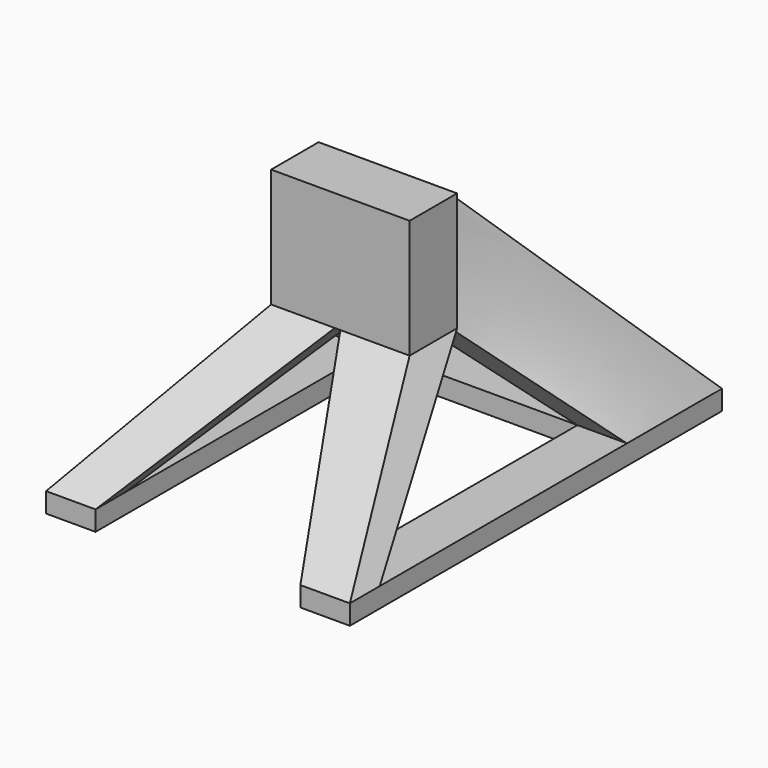
from build123d import *

# Parameters (mm, degrees)
F0_W     = 2.5
F0_H     = 17.5
F1_DEPTH = 1
F2_W     = 7
F2_H     = 6
F3_DEPTH = 3
F4_W     = 2.5
F4_H     = 6
F5_W     = 3
F5_H     = 6
F4_H_2   = 1.899175
F8_W     = 3.219328
F8_H     = 3
F4_H_3   = 1.887217
F8_W_2   = 3.5


with BuildPart() as f1:
    # F0 (on Top) → F1 (new body)
    with BuildSketch(Plane.XY):
        Polygon((7.960672, 11.500003), (-7.389328, 11.500003), (-7.389328, 5.500003), (-4.889328, 5.500003), (5.460672, 5.500003), (7.960672, 5.500003), align=None)
        with Locations((-6.139328, -3.249997)):
            Rectangle(F0_W, F0_H)
        with Locations((6.710672, -3.249997)):
            Rectangle(F0_W, F0_H)
    extrude(amount=F1_DEPTH)


with BuildPart() as f3:
    # F2 (on Front) → F3 (new body)
    with BuildSketch(Plane.XZ):
        with Locations((0.280672, 10)):
            Rectangle(F2_W, F2_H)
    extrude(amount=F3_DEPTH)


with BuildPart() as f6:
    # F4 (on face) → F6 section 0
    with BuildSketch(Plane.XY.offset(1)):
        with Locations((6.710672, 8.500003)):
            Rectangle(F4_W, F4_H)
    # F5 (on Front) → F6 section 1
    with BuildSketch(Plane.XZ):
        with Locations((1.5, 10)):
            Rectangle(F5_W, F5_H)
    loft()


with BuildPart() as f7:
    # F4 (on face) → F7 section 0
    with BuildSketch(Plane.XY.offset(1)):
        with Locations((-6.139328, 8.500003)):
            Rectangle(F4_W, F4_H)
    # F5 (on Front) → F7 section 1
    with BuildSketch(Plane.XZ):
        with Locations((-1.5, 10)):
            Rectangle(F5_W, F5_H)
    loft()


with BuildPart() as f9:
    # F4 (on face) → F9 section 0
    with BuildSketch(Plane.XY.offset(1)):
        with Locations((-6.139328, -11.050409)):
            Rectangle(F4_W, F4_H_2)
    # F8 (on face) → F9 section 1
    with BuildSketch(Plane(origin=(0, 0, 7), x_dir=(1, 0, 0), z_dir=(0, 0, -1))):
        with Locations((-1.609664, 1.5)):
            Rectangle(F8_W, F8_H)
    loft()


with BuildPart() as f10:
    # F4 (on face) → F10 section 0
    with BuildSketch(Plane.XY.offset(1)):
        with Locations((6.710672, -11.056388)):
            Rectangle(F4_W, F4_H_3)
    # F8 (on face) → F10 section 1
    with BuildSketch(Plane(origin=(0, 0, 7), x_dir=(1, 0, 0), z_dir=(0, 0, -1))):
        with Locations((2.030672, 1.5)):
            Rectangle(F8_W_2, F8_H)
    loft()


solid = Compound([f1.part, f3.part, f6.part, f7.part, f9.part, f10.part])
